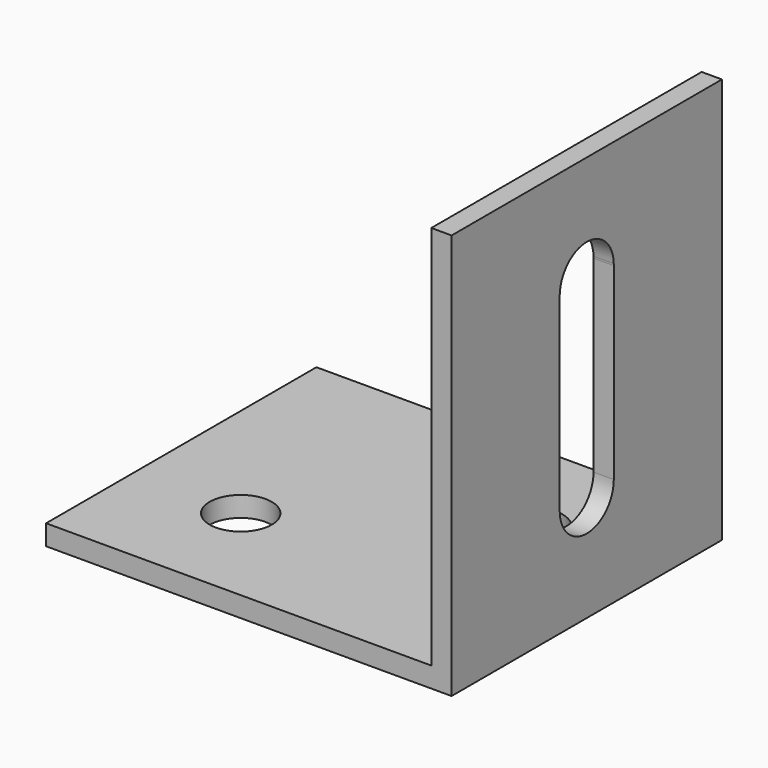
from build123d import *

# Parameters (mm, degrees)
F1_DEPTH = 25
F2_R     = 2.296991
F2_R_2   = 2.582396
F3_DEPTH = 25
F5_DEPTH = 25


with BuildPart() as f1:
    # F0 (on Front) → F1 (new body)
    with BuildSketch(Plane.XZ):
        Polygon((0, 0), (0, 30), (-1.5, 30), (-1.5, 1.5), (-30, 1.5), (-30, 0), align=None)
    extrude(amount=F1_DEPTH)

    # F2 (on face) → F3 (cut)
    with BuildSketch(Plane.XY.offset(1.5)):
        with Locations((-22, -17)):
            Circle(F2_R)
        with Locations((-8, -8)):
            Circle(F2_R_2)
    extrude(amount=-F3_DEPTH, mode=Mode.SUBTRACT)

    # F4 (on face) → F5 (cut)
    with BuildSketch(Plane.YZ):
        with BuildLine():
            Line((-10.000746, 22.061086), (-10.00074, 21.93918))
            ThreePointArc((-10.00074, 21.93918), (-10, 22.000133), (-10.000746, 22.061086))
        make_face()
        with BuildLine():
            Line((-10, 8.000133), (-10.00074, 21.93918))
            Line((-10.00074, 21.93918), (-10.000746, 22.061086))
            ThreePointArc((-10.000746, 22.061086), (-12.495314, 24.499996), (-14.999007, 22.070455))
            Line((-14.999007, 22.070455), (-14.999007, 21.929545))
            Line((-14.999007, 21.929545), (-14.999007, 8.070455))
            Line((-14.999007, 8.070455), (-14.999007, 7.929545))
            ThreePointArc((-14.999007, 7.929545), (-12.464703, 5.500249), (-10, 8.000133))
        make_face()
        with BuildLine():
            Line((-14.999007, 21.929545), (-14.999007, 22.070455))
            ThreePointArc((-14.999007, 22.070455), (-15, 22), (-14.999007, 21.929545))
        make_face()
        with BuildLine():
            ThreePointArc((-14.999007, 8.070455), (-15, 8), (-14.999007, 7.929545))
            Line((-14.999007, 7.929545), (-14.999007, 8.070455))
        make_face()
    extrude(amount=-F5_DEPTH, mode=Mode.SUBTRACT)


solid = f1.part
